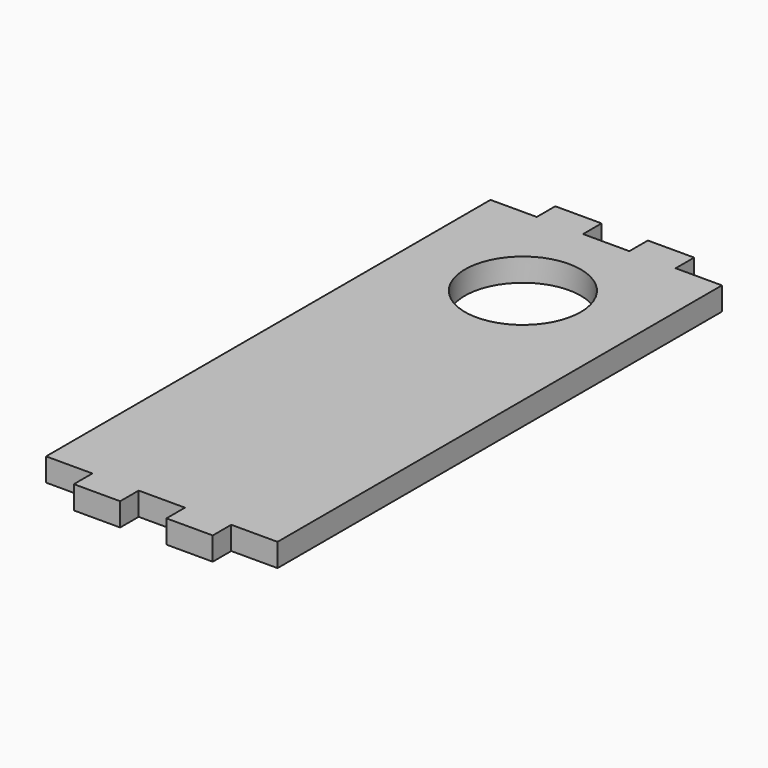
from build123d import *

# Parameters (mm, degrees)
F0_W     = 31.75
F0_H     = 82.55
F0_R     = 7.9375
F1_DEPTH = 3.175
F2_W     = 6.35
F2_H     = 3.175
F3_DEPTH = 3.175


with BuildPart() as f1:
    # F0 (on Top) → F1 (new body)
    with BuildSketch(Plane.XY):
        with Locations((0, -23.8125)):
            Rectangle(F0_W, F0_H)
        Circle(F0_R, mode=Mode.SUBTRACT)
    extrude(amount=F1_DEPTH)

    # F2 (on face) → F3 (cut, through all)
    with BuildSketch(Plane.XY.offset(3.175)):
        with Locations((-12.7, 15.875)):
            Rectangle(F2_W, F2_H)
        with Locations((0, 15.875)):
            Rectangle(F2_W, F2_H)
        with Locations((12.7, 15.875)):
            Rectangle(F2_W, F2_H)
        with Locations((-12.7, -63.5)):
            Rectangle(F2_W, F2_H)
        with Locations((12.7, -63.5)):
            Rectangle(F2_W, F2_H)
        with Locations((0, -63.5)):
            Rectangle(F2_W, F2_H)
    extrude(amount=-F3_DEPTH, mode=Mode.SUBTRACT)


solid = f1.part
